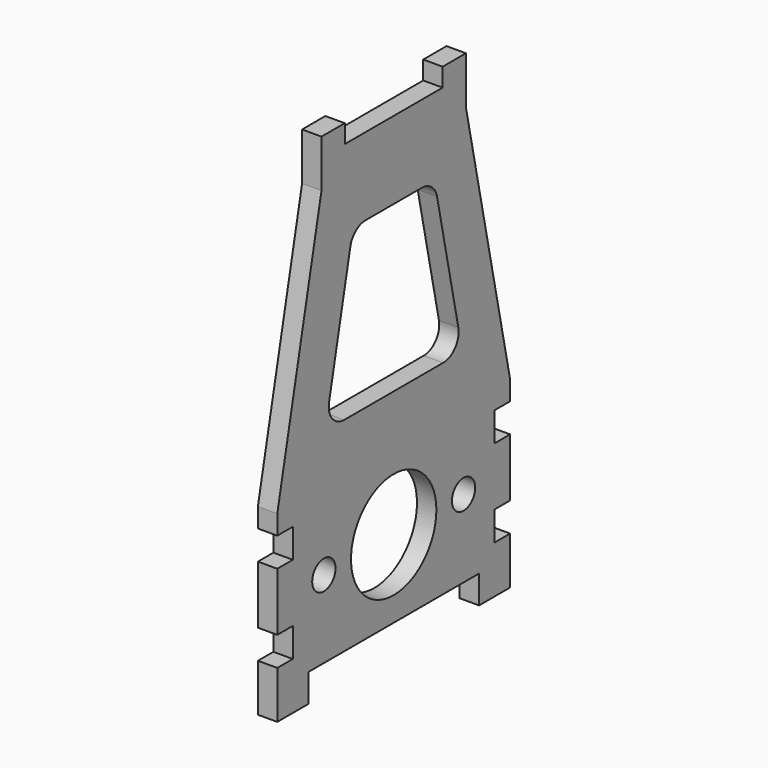
from build123d import *

# Parameters (mm, degrees)
F0_W     = 4
F0_H     = 2.9
F0_W_2   = 3
F0_H_2   = 1.9
F0_R     = 1.5
F0_R_2   = 5.5
F1_DEPTH = 2
F2_DEPTH = 2


with BuildPart() as f1:
    # F0 (on Right) → F1 (new body)
    with BuildSketch(Plane.YZ):
        with Locations((-13, -9.45)):
            Rectangle(F0_W, F0_H)
        with Locations((13, -9.45)):
            Rectangle(F0_W, F0_H)
        with Locations((-7.80476, 38.95)):
            Rectangle(F0_W_2, F0_H_2)
        with Locations((7.80476, 38.95)):
            Rectangle(F0_W_2, F0_H_2)
        Polygon((-9.30476, 38), (-9.30476, 35), (9.30476, 35), (9.30476, 38), (6.30476, 38), (-6.30476, 38), align=None)
        Polygon((-15, -6), (-15, -8), (-11, -8), (11, -8), (15, -8), (15, -6), (13, -6), (13, -3), (15, -3), (15, 3), (13, 3), (13, 6), (15, 6), (15, 8), (-15, 8), (-15, 6), (-13, 6), (-13, 3), (-15, 3), (-15, -3), (-13, -3), (-13, -6), align=None)
        with Locations((-9, 0)):
            Circle(F0_R, mode=Mode.SUBTRACT)
        Circle(F0_R_2, mode=Mode.SUBTRACT)
        with Locations((9, 0)):
            Circle(F0_R, mode=Mode.SUBTRACT)
        Polygon((-9.30476, 35), (-15, 8), (15, 8), (9.30476, 35), align=None)
        with BuildLine():
            ThreePointArc((3.6272711829, 30), (4.8871178359, 29.5533146529), (5.5842094494, 28.4127864109))
            Line((5.5842094494, 28.4127864109), (8.326362042, 15.4127864109))
            ThreePointArc((8.326362042, 15.4127864109), (7.9227384284, 13.740153347), (6.3694237755, 13))
            Line((6.3694237755, 13), (-6.3694237755, 13))
            ThreePointArc((-6.3694237755, 13), (-7.9227384284, 13.740153347), (-8.326362042, 15.4127864109))
            Line((-8.326362042, 15.4127864109), (-5.5842094494, 28.4127864109))
            ThreePointArc((-5.5842094494, 28.4127864109), (-4.8871178359, 29.5533146529), (-3.6272711829, 30))
            Line((-3.6272711829, 30), (3.6272711829, 30))
        make_face(mode=Mode.SUBTRACT)
    extrude(amount=F1_DEPTH)

    # F0 (on Right) → F2 (join)
    with BuildSketch(Plane.YZ):
        Polygon((-9.30476, 35), (-15, 8), (15, 8), (9.30476, 35), align=None)
        with BuildLine():
            ThreePointArc((3.6272711829, 30), (4.8871178359, 29.5533146529), (5.5842094494, 28.4127864109))
            Line((5.5842094494, 28.4127864109), (8.326362042, 15.4127864109))
            ThreePointArc((8.326362042, 15.4127864109), (7.9227384284, 13.740153347), (6.3694237755, 13))
            Line((6.3694237755, 13), (-6.3694237755, 13))
            ThreePointArc((-6.3694237755, 13), (-7.9227384284, 13.740153347), (-8.326362042, 15.4127864109))
            Line((-8.326362042, 15.4127864109), (-5.5842094494, 28.4127864109))
            ThreePointArc((-5.5842094494, 28.4127864109), (-4.8871178359, 29.5533146529), (-3.6272711829, 30))
            Line((-3.6272711829, 30), (3.6272711829, 30))
        make_face(mode=Mode.SUBTRACT)
        Polygon((-15, -6), (-15, -8), (-11, -8), (11, -8), (15, -8), (15, -6), (13, -6), (13, -3), (15, -3), (15, 3), (13, 3), (13, 6), (15, 6), (15, 8), (-15, 8), (-15, 6), (-13, 6), (-13, 3), (-15, 3), (-15, -3), (-13, -3), (-13, -6), align=None)
        with Locations((-9, 0)):
            Circle(F0_R, mode=Mode.SUBTRACT)
        Circle(F0_R_2, mode=Mode.SUBTRACT)
        with Locations((9, 0)):
            Circle(F0_R, mode=Mode.SUBTRACT)
        with Locations((-13, -9.45)):
            Rectangle(F0_W, F0_H)
        with Locations((13, -9.45)):
            Rectangle(F0_W, F0_H)
        with Locations((7.80476, 38.95)):
            Rectangle(F0_W_2, F0_H_2)
        Polygon((-9.30476, 38), (-9.30476, 35), (9.30476, 35), (9.30476, 38), (6.30476, 38), (-6.30476, 38), align=None)
        with Locations((-7.80476, 38.95)):
            Rectangle(F0_W_2, F0_H_2)
    extrude(amount=F2_DEPTH)


solid = f1.part
